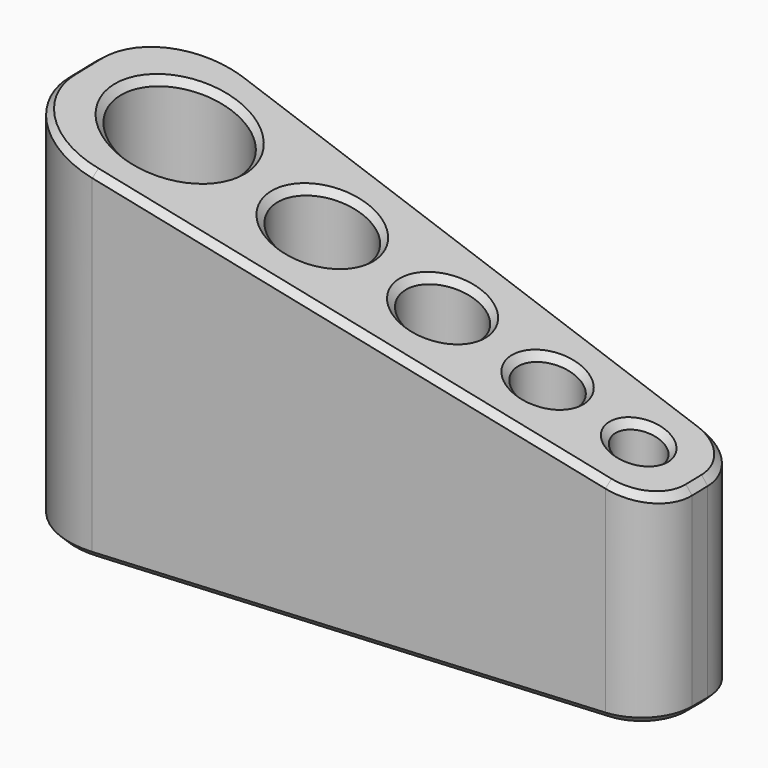
from build123d import *

# Parameters (mm, degrees)
SKETCH001_R       = 2.355589
SKETCH001_R_2     = 1.789786
SKETCH001_R_3     = 1.472243
SKETCH001_R_4     = 1.183568
SKETCH001_R_5     = 0.92376
PAD_DEPTH         = 15
POCKET_DEPTH      = 8.310486
POCKET_DEPTH_BACK = 1.927638
FILLET_R          = 2
FILLET001_R       = 3.25
CHAMFER_SIZE      = 0.25


with BuildPart() as part:
    # Sketch001 → Pad (new body)
    with BuildSketch(Plane.XY):
        Polygon((0, -8.335405), (24.449893, -6.402758), (24.449893, -1.932647), (0, 0), align=None)
        with Locations((3.855589, -4.167703)):
            Circle(SKETCH001_R, mode=Mode.SUBTRACT)
        with Locations((9.500964, -4.167703)):
            Circle(SKETCH001_R_2, mode=Mode.SUBTRACT)
        with Locations((14.262993, -4.167703)):
            Circle(SKETCH001_R_3, mode=Mode.SUBTRACT)
        with Locations((18.418804, -4.167703)):
            Circle(SKETCH001_R_4, mode=Mode.SUBTRACT)
        with Locations((22.026133, -4.167703)):
            Circle(SKETCH001_R_5, mode=Mode.SUBTRACT)
    extrude(amount=PAD_DEPTH)

    # Sketch002 (on DatumPlane) → Pocket (cut, two sides)
    with BuildSketch(Plane(origin=(0, 0, 0), x_dir=(-0.99689, 0.078799, 0), z_dir=(0.078799, 0.99689, 0))) as pocket_sk:
        Polygon((-26, 15.5), (-26, 7.5), (3, 15.5), align=None)
    extrude(amount=-POCKET_DEPTH, mode=Mode.SUBTRACT)
    extrude(pocket_sk.sketch, amount=POCKET_DEPTH_BACK, mode=Mode.SUBTRACT)

    # Fillet
    fillet_edges = [part.edges().sort_by_distance(p)[0] for p in [
        (24.449893, -6.402758, 3.904703),
        (24.449893, -1.932647, 3.953289),
    ]]
    fillet(fillet_edges, radius=FILLET_R)

    # Fillet001
    fillet001_edges = [part.edges().sort_by_distance(p)[0] for p in [
        (0, -8.335405, 7.24561),
        (0, 0, 7.336207),
    ]]
    fillet(fillet001_edges, radius=FILLET001_R)

    # Chamfer
    chamfer_edges = [part.edges().sort_by_distance(p)[0] for p in [
        (13.056795, -1.032077, 0),
        (13.056795, -1.032077, 11.059304),
        (12.79075, -4.167702, 11.064306),
        (7.711178, -4.167701, 12.46121),
        (17.235236, -4.167702, 9.842054),
        (1.5, -4.167701, 14.169311),
        (21.102372, -4.167702, 8.778575),
        (21.102372, -4.167703, 0),
        (17.235236, -4.167703, 0),
        (12.79075, -4.167703, 0),
        (7.711178, -4.167703, 0),
        (1.5, -4.167703, 0),
    ]]
    chamfer(chamfer_edges, length=CHAMFER_SIZE)


solid = part.part
